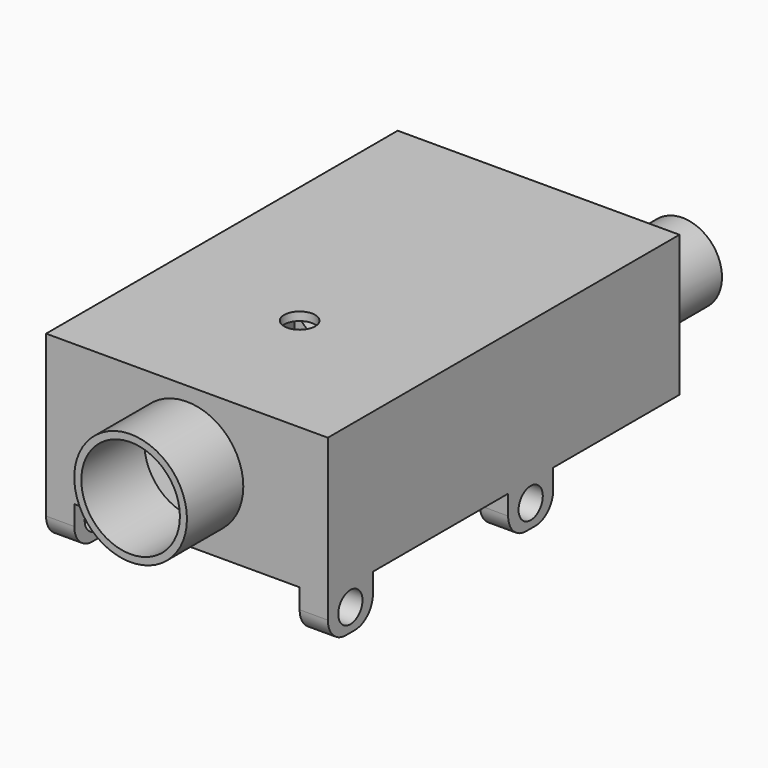
from build123d import *

# Parameters (mm, degrees)
F0_W      = 100
F0_H      = 100
F1_DEPTH  = 50
F2_T      = -3
F3_R      = 5.5
F4_DEPTH  = 50
F5_R      = 20
F5_R_2    = 17.5
F6_DEPTH  = 25
F7_DEPTH  = 3
F8_W      = 10
F8_H      = 20
F9_DEPTH  = 15
F10_R     = 5.3726460022
F11_DEPTH = 100
F12_R     = 8
F13_R     = 7
F13_R_2   = 5.5
F14_DEPTH = 3
F15_W     = 100
F15_H     = 50
F16_DEPTH = 3
F18_DEPTH = 50
F20_W     = 100
F20_H     = 50
F20_W_2   = 94
F20_H_2   = 44
F21_DEPTH = 50
F22_R     = 12.5
F23_DEPTH = 53
F24_W     = 100
F24_H     = 50
F25_DEPTH = 3
F26_R     = 14
F26_R_2   = 12.5
F27_DEPTH = 25
F28_DEPTH = 3
F30_DEPTH = 44


with BuildPart() as f1:
    # F0 (on Top) → F1 (new body)
    with BuildSketch(Plane.XY):
        Rectangle(F0_W, F0_H)
    extrude(amount=F1_DEPTH)

    # F2
    f2_openings = [f1.faces().sort_by_distance(p)[0] for p in [
        (0, 50, 25),
    ]]
    offset(amount=F2_T, openings=f2_openings)

    # F3 (on face) → F4 (cut, through all)
    with BuildSketch(Plane.XY.offset(50)):
        Circle(F3_R)
    extrude(amount=-F4_DEPTH, mode=Mode.SUBTRACT)

    # F5 (on face) → F6 (join)
    with BuildSketch(Plane.XZ.offset(50)):
        with Locations((0, 25)):
            Circle(F5_R)
        with Locations((0, 25)):
            Circle(F5_R_2, mode=Mode.SUBTRACT)
    extrude(amount=F6_DEPTH)

    # F5 (on face) → F7 (cut, through all)
    with BuildSketch(Plane.XZ.offset(50)):
        with Locations((0, 25)):
            Circle(F5_R_2)
    extrude(amount=-F7_DEPTH, mode=Mode.SUBTRACT)

    # F8 (on face) → F9 (join)
    with BuildSketch(Plane(origin=(0, 0, 0), x_dir=(1, 0, 0), z_dir=(0, 0, -1))):
        with Locations((45, -40)):
            Rectangle(F8_W, F8_H)
        with Locations((-45, -40)):
            Rectangle(F8_W, F8_H)
        with Locations((-45, 40)):
            Rectangle(F8_W, F8_H)
        with Locations((45, 40)):
            Rectangle(F8_W, F8_H)
    extrude(amount=F9_DEPTH)

    # F10 (on face) → F11 (cut, through all)
    with BuildSketch(Plane.YZ.offset(50)):
        with Locations((40, -7)):
            Circle(F10_R)
        with Locations((-40, -7)):
            Circle(F10_R)
    extrude(amount=-F11_DEPTH, mode=Mode.SUBTRACT)

    # F12
    f12_edges = [f1.edges().sort_by_distance(p)[0] for p in [
        (45, 30, -15),
        (45, 50, -15),
        (-45, 50, -15),
        (-45, 30, -15),
        (45, -50, -15),
        (45, -30, -15),
        (-45, -50, -15),
        (-45, -30, -15),
    ]]
    fillet(f12_edges, radius=F12_R)

    # F13 (on face) → F14 (join)
    with BuildSketch(Plane.XY.offset(3)):
        Circle(F13_R)
        Circle(F13_R_2, mode=Mode.SUBTRACT)
    extrude(amount=F14_DEPTH)

    # F15 (on face) → F16 (join)
    with BuildSketch(Plane(origin=(0, 50, 0), x_dir=(-1, 0, 0), z_dir=(0, 1, 0))):
        with Locations((0, 25)):
            Rectangle(F15_W, F15_H)
    extrude(amount=F16_DEPTH)

    # F17 (on Top) → F18 (join, through all)
    with BuildSketch(Plane.XY):
        Polygon((-50, 53), (50, 53), (50, 79.7949192431), align=None)
    extrude(amount=F18_DEPTH)

    # F20 (on face) → F21 (join)
    with BuildSketch(Plane(origin=(0, 53, 0), x_dir=(-1, 0, 0), z_dir=(0, 1, 0))):
        with Locations((0, 25)):
            Rectangle(F20_W, F20_H)
        with Locations((0, 25)):
            Rectangle(F20_W_2, F20_H_2, mode=Mode.SUBTRACT)
    extrude(amount=F21_DEPTH)

    # F22 (on face) → F23 (cut, through all)
    with BuildSketch(Plane(origin=(0, 103, 0), x_dir=(-1, 0, 0), z_dir=(0, 1, 0))):
        with Locations((30, 25)):
            Circle(F22_R)
    extrude(amount=-F23_DEPTH, mode=Mode.SUBTRACT)

    # F24 (on face) → F25 (join)
    with BuildSketch(Plane(origin=(0, 103, 0), x_dir=(-1, 0, 0), z_dir=(0, 1, 0))):
        with Locations((0, 25)):
            Rectangle(F24_W, F24_H)
    extrude(amount=F25_DEPTH)

    # F26 (on face) → F27 (join)
    with BuildSketch(Plane(origin=(0, 106, 0), x_dir=(-1, 0, 0), z_dir=(0, 1, 0))):
        with Locations((-31.1048589647, 25)):
            Circle(F26_R)
        with Locations((-31.1048589647, 25)):
            Circle(F26_R_2, mode=Mode.SUBTRACT)
    extrude(amount=F27_DEPTH)

    # F28 (cut, through all): a face of the model
    f28_faces = [f1.faces().sort_by_distance(p)[0] for p in [
        (31.1048589647, 106, 25),
    ]]
    extrude(f28_faces, amount=-F28_DEPTH, mode=Mode.SUBTRACT)

    # F29 (on face) → F30 (join, through all)
    with BuildSketch(Plane.XY.offset(3)):
        Polygon((-34.5411077142, 28.4994188696), (-41.7947806418, 50), (-47, 50), (-47, 28.4994188696), align=None)
    extrude(amount=F30_DEPTH)


solid = f1.part
